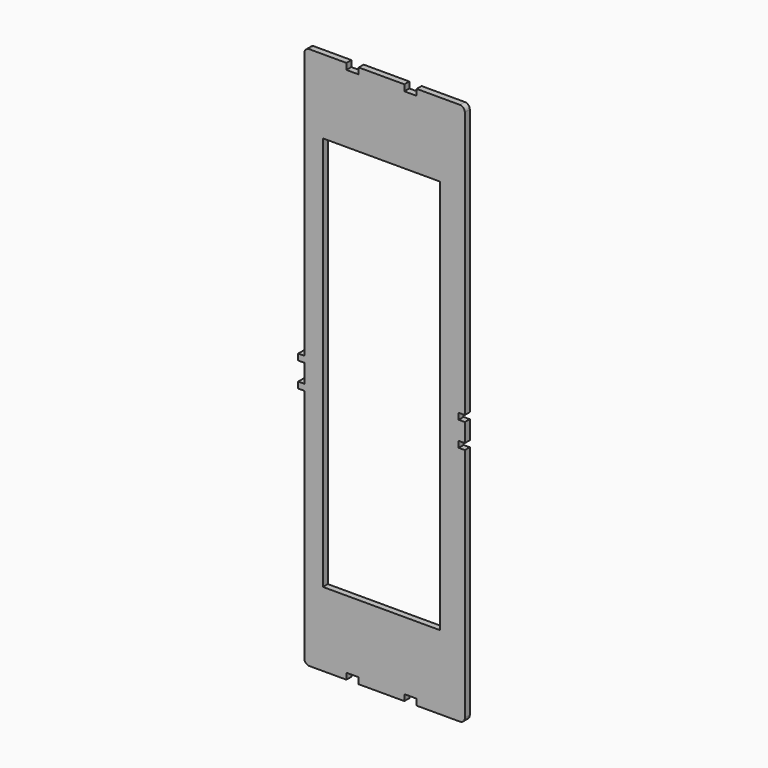
from build123d import *

# Parameters (mm, degrees)
F0_W     = 120.65
F0_H     = 406.4
F1_DEPTH = 6.35
F2_R     = 5.08


with BuildPart() as f1:
    # F0 (on Front) → F1 (new body)
    with BuildSketch(Plane.XZ):
        Polygon((85.725, 0), (85.725, 279.4), (36.1569, 279.4), (36.1569, 273.05), (23.4569, 273.05), (23.4569, 279.4), (-23.4569, 279.4), (-23.4569, 273.05), (-36.1569, 273.05), (-36.1569, 279.4), (-79.375, 279.4), (-79.375, 0), (-85.725, 0), (-85.725, -6.35), (-79.375, -6.35), (-79.375, -25.4), (-85.725, -25.4), (-85.725, -31.75), (-79.375, -31.75), (-79.375, -279.4), (-36.1569, -279.4), (-36.1569, -273.05), (-23.4569, -273.05), (-23.4569, -279.4), (23.4569, -279.4), (23.4569, -273.05), (36.1569, -273.05), (36.1569, -279.4), (85.725, -279.4), (85.725, -31.75), (79.375, -31.75), (79.375, -25.4), (85.725, -25.4), (85.725, -6.35), (79.375, -6.35), (79.375, 0), align=None)
        Rectangle(F0_W, F0_H, mode=Mode.SUBTRACT)
    extrude(amount=F1_DEPTH)

    # F2
    f2_edges = [f1.edges().sort_by_distance(p)[0] for p in [
        (85.725, -3.175, 279.4),
        (-79.375, -3.175, 279.4),
        (85.725, -3.175, -279.4),
        (-79.375, -3.175, -279.4),
    ]]
    fillet(f2_edges, radius=F2_R)


solid = f1.part
